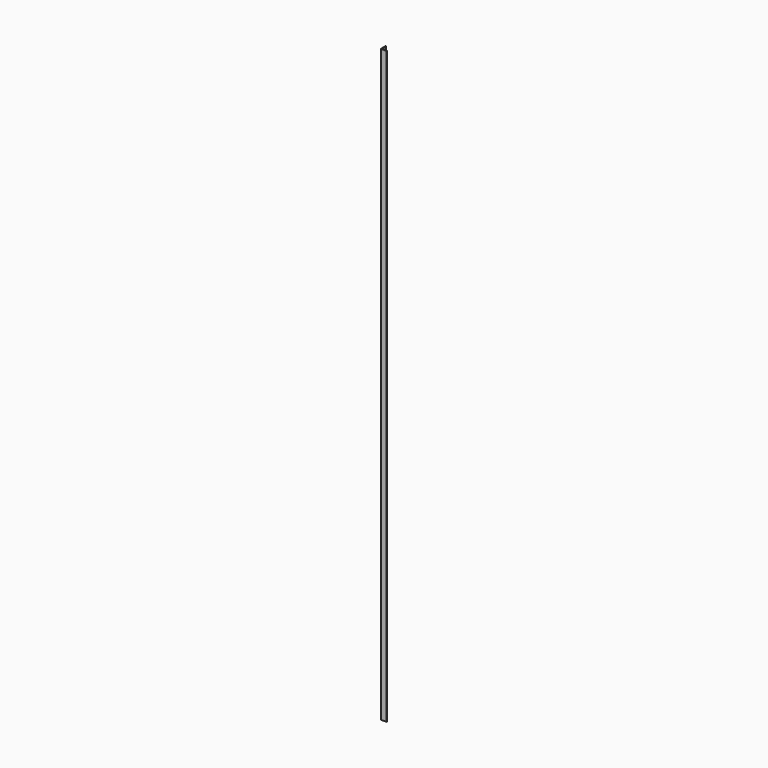
from build123d import *

# Parameters (mm, degrees)
PAD_DEPTH = 1000


with BuildPart() as part:
    # Sketch → Pad (new body)
    with BuildSketch(Plane.XY):
        Polygon((0, 0), (0, 9), (-1, 9), (-1, -1), (9, -1), (9, 0), align=None)
    extrude(amount=PAD_DEPTH)


solid = part.part
